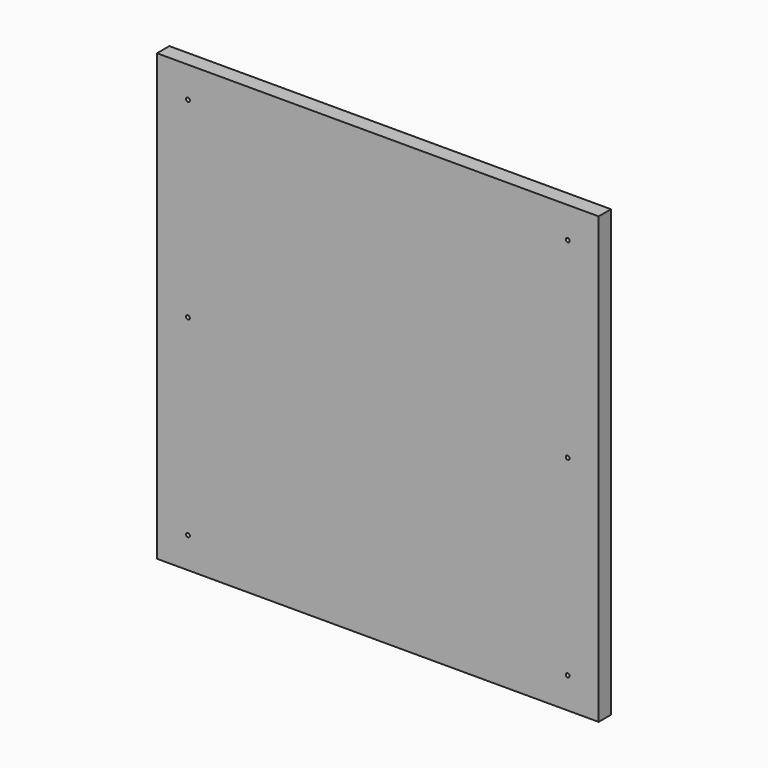
from build123d import *

# Parameters (mm, degrees)
SKETCH049_W                        = 514
SKETCH049_H                        = 518
PAD018_DEPTH                       = 18
SKETCH050_R                        = 2.25
POCKET031_DEPTH                    = 18
SKETCH050_LINEARPATTERN004_2_R     = 2.25
POCKET031_LINEARPATTERN004_2_DEPTH = 18
SKETCH050_LINEARPATTERN004_3_R     = 2.25
POCKET031_LINEARPATTERN004_3_DEPTH = 18
BODY017_PLACEMENT_ANGLE            = 90


with BuildPart() as part:
    # Sketch049 → Pad018 (new body)
    with BuildSketch(Plane.XY):
        with Locations((0, 259)):
            Rectangle(SKETCH049_W, SKETCH049_H)
    extrude(amount=PAD018_DEPTH)

    # Sketch050 (on Face6 of Pad018) → Pocket031 (cut)
    with BuildSketch(Plane.XY.offset(18)):
        with Locations((-221, 36)):
            Circle(SKETCH050_R)
    pocket031 = extrude(amount=-POCKET031_DEPTH, mode=Mode.SUBTRACT)

    # Sketch050 LinearPattern004 2 → Pocket031 LinearPattern004 2 (cut)
    with BuildSketch(Plane(origin=(0, 223, 18), x_dir=(1, 0, 0), z_dir=(0, 0, 1))):
        with Locations((-221, 36)):
            Circle(SKETCH050_LINEARPATTERN004_2_R)
    pocket031_linearpattern004_2 = extrude(amount=-POCKET031_LINEARPATTERN004_2_DEPTH, mode=Mode.SUBTRACT)

    # Sketch050 LinearPattern004 3 → Pocket031 LinearPattern004 3 (cut)
    with BuildSketch(Plane(origin=(0, 446, 18), x_dir=(1, 0, 0), z_dir=(0, 0, 1))):
        with Locations((-221, 36)):
            Circle(SKETCH050_LINEARPATTERN004_3_R)
    pocket031_linearpattern004_3 = extrude(amount=-POCKET031_LINEARPATTERN004_3_DEPTH, mode=Mode.SUBTRACT)

    # Mirrored011: Pocket031, Pocket031 LinearPattern004 2, Pocket031 LinearPattern004 3 across Sketch050 V_Axis
    add(pocket031.mirror(Plane(origin=(0, 0, 18), x_dir=(0, 0, 1), z_dir=(1, 0, 0))), mode=Mode.SUBTRACT)
    add(pocket031_linearpattern004_2.mirror(Plane(origin=(0, 0, 18), x_dir=(0, 0, 1), z_dir=(1, 0, 0))), mode=Mode.SUBTRACT)
    add(pocket031_linearpattern004_3.mirror(Plane(origin=(0, 0, 18), x_dir=(0, 0, 1), z_dir=(1, 0, 0))), mode=Mode.SUBTRACT)


with BuildPart() as part_1:
    # Body017 placement: moved
    add(part.part.moved(Location((0, 410, 6))).rotate(Axis((0, 410, 6), (1, 0, 0)), BODY017_PLACEMENT_ANGLE))


solid = part_1.part
